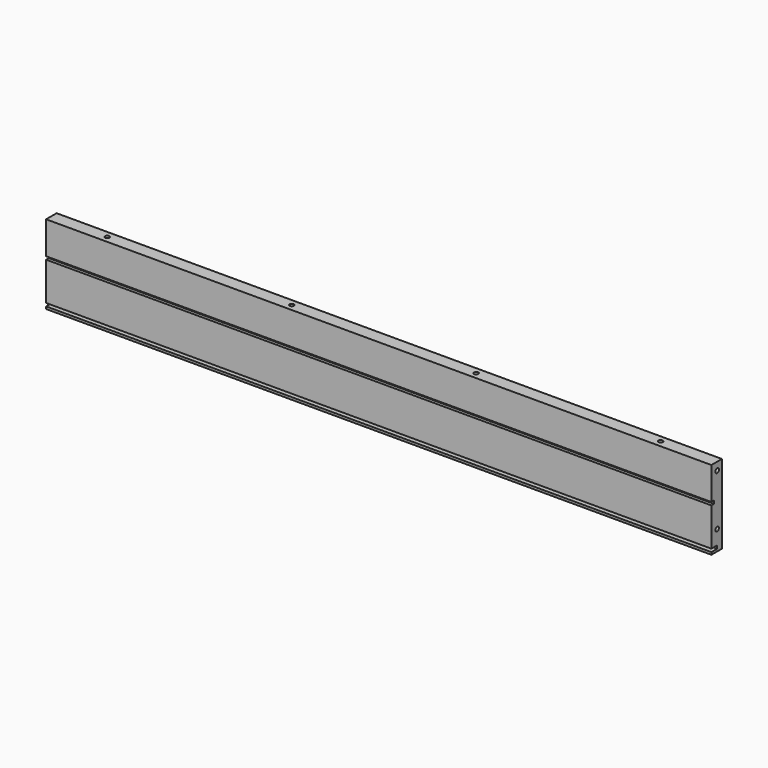
from build123d import *

# Parameters (mm, degrees)
F0_W      = 505
F0_H      = 60
F1_DEPTH  = 10
F2_W      = 505
F2_H      = 2.3
F3_DEPTH  = 5.5
F4_W      = 505
F4_H      = 2.3
F5_DEPTH  = 2.5
F7_D      = 3.3
F7_DEPTH  = 13.5
F7_TIP    = 0.9914200214
F9_D      = 3.3
F9_DEPTH  = 15
F9_TIP    = 0.9914200214
F11_D     = 3.3
F11_DEPTH = 15
F11_TIP   = 0.9914200214


with BuildPart() as f1:
    # F0 (on Front) → F1 (new body)
    with BuildSketch(Plane.XZ):
        Rectangle(F0_W, F0_H)
    extrude(amount=F1_DEPTH)

    # F2 (on face) → F3 (cut)
    with BuildSketch(Plane.XZ.offset(10)):
        with Locations((0, -27.05)):
            Rectangle(F2_W, F2_H)
    extrude(amount=-F3_DEPTH, mode=Mode.SUBTRACT)

    # F4 (on face) → F5 (cut)
    with BuildSketch(Plane.XZ.offset(10)):
        with Locations((0, 4.15)):
            Rectangle(F4_W, F4_H)
    extrude(amount=-F5_DEPTH, mode=Mode.SUBTRACT)

    # F7
    with Locations(Plane.XY.offset(30)):
        with Locations((-210, -5), (-70, -5), (70, -5), (210, -5)):
            Hole(F7_D / 2, depth=F7_DEPTH)
            with Locations((0, 0, -(F7_DEPTH + F7_TIP / 2))):  # 118° drill point
                Cone(0, F7_D / 2, F7_TIP, mode=Mode.SUBTRACT)

    # F9
    with Locations(Plane(origin=(-252.5, 0, 0), x_dir=(0, -1, 0), z_dir=(-1, 0, 0))):
        with Locations((5, 24), (5, -15)):
            Hole(F9_D / 2, depth=F9_DEPTH)
            with Locations((0, 0, -(F9_DEPTH + F9_TIP / 2))):  # 118° drill point
                Cone(0, F9_D / 2, F9_TIP, mode=Mode.SUBTRACT)

    # F11
    with Locations(Plane.YZ.offset(252.5)):
        with Locations((-4.5, -15), (-4.5, 24)):
            Hole(F11_D / 2, depth=F11_DEPTH)
            with Locations((0, 0, -(F11_DEPTH + F11_TIP / 2))):  # 118° drill point
                Cone(0, F11_D / 2, F11_TIP, mode=Mode.SUBTRACT)


solid = f1.part
